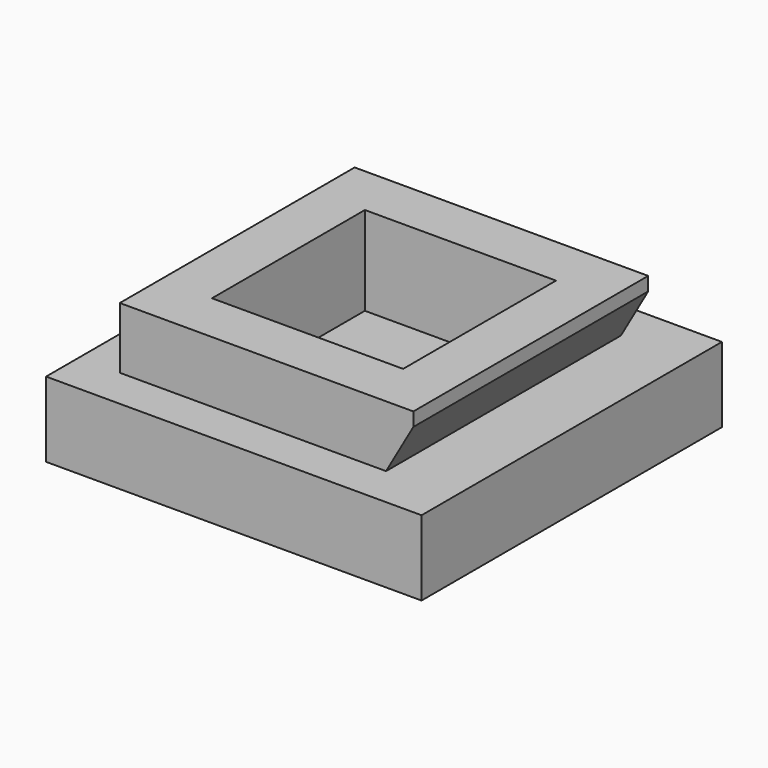
from build123d import *

# Parameters (mm, degrees)
F0_W     = 55
F0_H     = 55
F1_DEPTH = 20
F3_W     = 28
F3_H     = 28
F4_DEPTH = 13
F5_W     = 55
F5_H     = 55
F5_W_2   = 43
F5_H_2   = 43
F6_DEPTH = 9
F8_DEPTH = 22.5


with BuildPart() as f1:
    # F0 (on Top) → F1 (new body)
    with BuildSketch(Plane.XY):
        Rectangle(F0_W, F0_H)
    extrude(amount=F1_DEPTH)

    # F3 (on face) → F4 (cut, through all)
    with BuildSketch(Plane.XY.offset(20)):
        Rectangle(F3_W, F3_H)
    extrude(amount=-F4_DEPTH, mode=Mode.SUBTRACT)

    # F5 (on face) → F6 (cut)
    with BuildSketch(Plane.XY.offset(20)):
        Rectangle(F5_W, F5_H)
        Rectangle(F5_W_2, F5_H_2, mode=Mode.SUBTRACT)
    extrude(amount=-F6_DEPTH, mode=Mode.SUBTRACT)

    # F7 (on Front) → F8 (cut, symmetric)
    with BuildSketch(Plane.XZ):
        Polygon((21.5, 11), (21.5, 18), (17.5, 11), align=None)
    extrude(amount=F8_DEPTH, both=True, mode=Mode.SUBTRACT)


solid = f1.part
